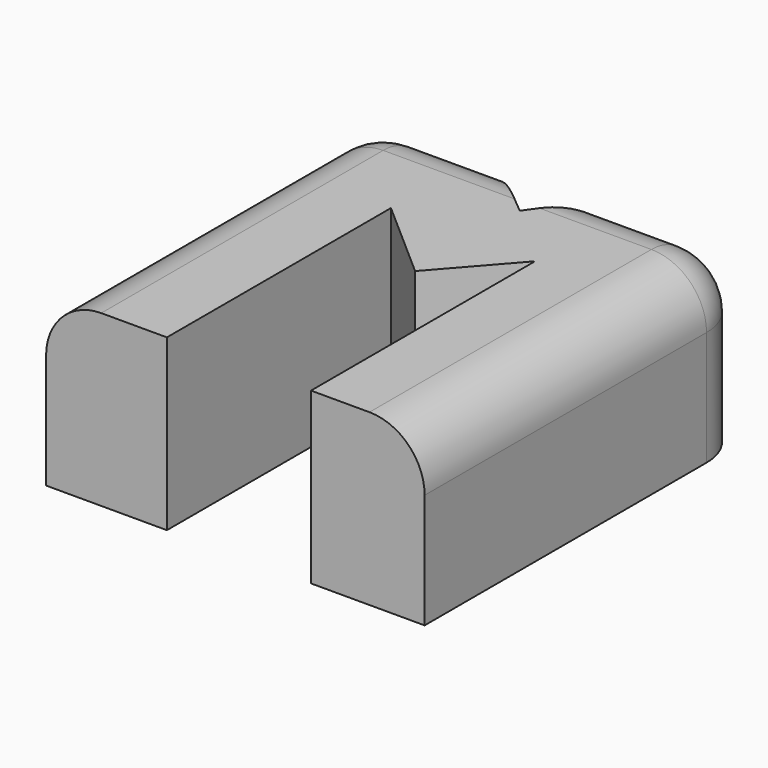
from build123d import *

# Parameters (mm, degrees)
F1_DEPTH = 15.9
F2_DEPTH = 31.2
F3_R     = 10.139696962


with BuildPart() as f1:
    # F0 (on Top) → F1 (new body)
    with BuildSketch(Plane.XY):
        Polygon((-14.9499792606, 36.5612395108), (-37.1546074748, 36.5612395108), (-37.1546074748, -38.338817656), (-14.9499792606, -38.338817656), (-14.9499792606, 13.1299823828), (0, 0), (11.5315502696, 13.1299823828), (11.5315502696, -38.338817656), (32.4177630246, -38.338817656), (32.4177630246, 36.5612395108), (8.9689589565, 36.5612395108), (0, 24.0256660507), align=None)
    extrude(amount=F1_DEPTH)

    # F2 (add): a face of the model
    f2_faces = [f1.faces().sort_by_distance(p)[0] for p in [
        (-2.5598021431, 2.3799510678, 15.9),
    ]]
    extrude(f2_faces, amount=-F2_DEPTH)

    # F3
    f3_edges = [f1.edges().sort_by_distance(p)[0] for p in [
        (-26.052293, 36.56124, 15.9),
        (20.693361, 36.56124, 15.9),
        (32.417763, -0.888789, 15.9),
        (-37.154607, -0.888789, 15.9),
        (-37.154607, 36.56124, 0.3),
        (32.417763, 36.56124, 0.3),
    ]]
    fillet(f3_edges, radius=F3_R)


solid = f1.part
